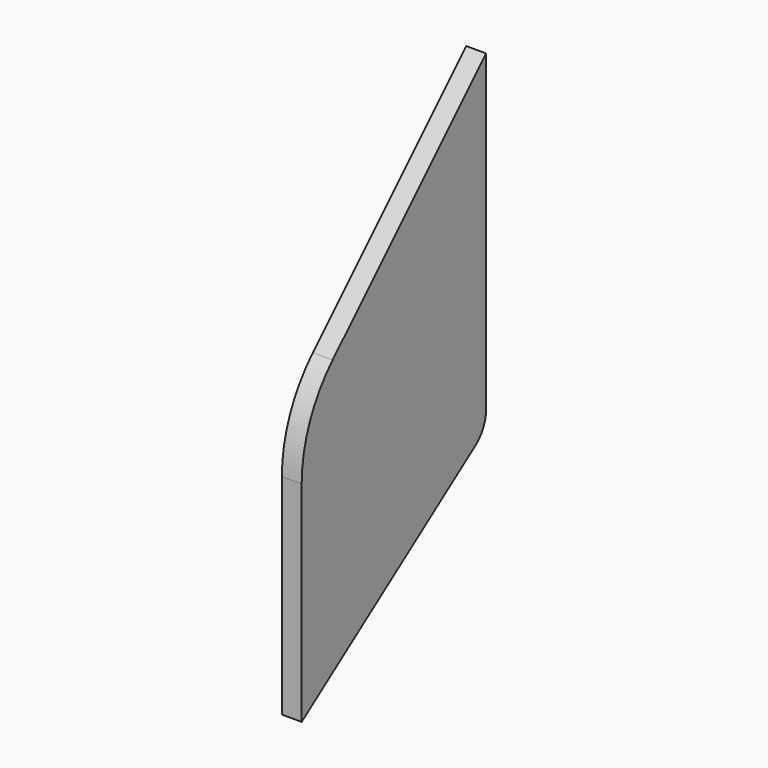
from build123d import *

# Parameters (mm, degrees)
PAD006_DEPTH            = 1.5
FILLET006_R             = 20
FILLET007_R             = 5
BODY007_PLACEMENT_ANGLE = 180


with BuildPart() as part:
    # Sketch011 → Pad006 (new body, symmetric)
    with BuildSketch(Plane.YZ):
        Polygon((27, -2.5), (61.9, -27.3999999995), (61.9, 12.6000000005), (27, 47.5), align=None)
    extrude(amount=PAD006_DEPTH, both=True)

    # Fillet006
    fillet006_edges = [part.edges().sort_by_distance(p)[0] for p in [
        (0, 61.9, 12.6),
    ]]
    fillet(fillet006_edges, radius=FILLET006_R)

    # Fillet007
    fillet007_edges = [part.edges().sort_by_distance(p)[0] for p in [
        (0, 27, -2.5),
    ]]
    fillet(fillet007_edges, radius=FILLET007_R)


with BuildPart() as part_1:
    # Body007 placement: moved
    add(part.part.rotate(Axis((0, 0, 0), (0, 0, 1)), BODY007_PLACEMENT_ANGLE))


solid = part_1.part
